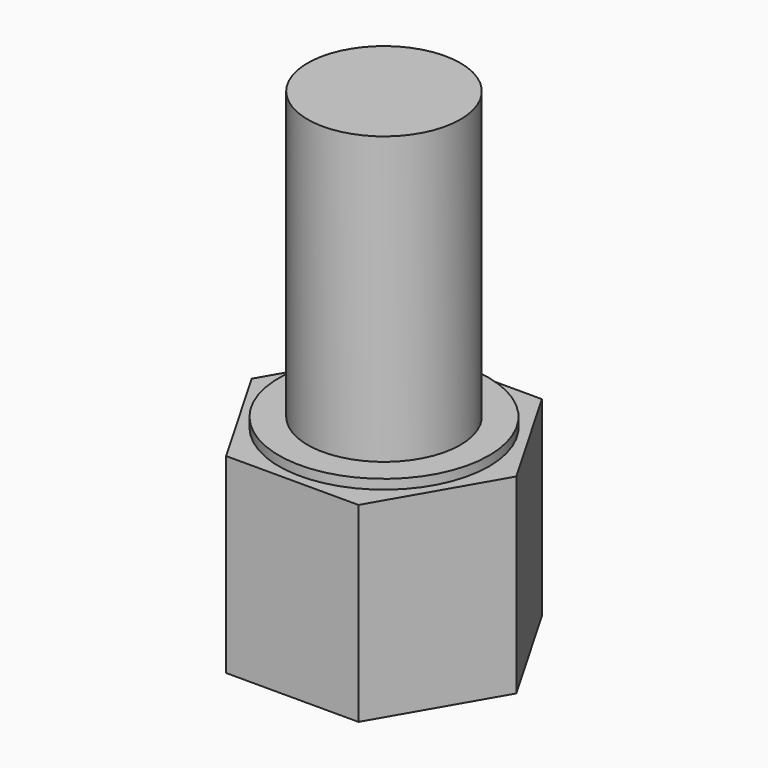
from build123d import *

# Parameters (mm, degrees)
F1_DEPTH = 10
F2_R     = 5.5
F3_DEPTH = 0.5
F4_R     = 4
F5_DEPTH = 15


with BuildPart() as f1:
    # F0 (on Top) → F1 (new body)
    with BuildSketch(Plane.XY):
        Polygon((3.464102, 6), (-3.464102, 6), (-6.928203, 0), (-3.464102, -6), (3.464102, -6), (6.928203, 0), align=None)
    extrude(amount=F1_DEPTH)

    # F2 (on face) → F3 (join)
    with BuildSketch(Plane.XY.offset(10)):
        Circle(F2_R)
    extrude(amount=F3_DEPTH)

    # F4 (on face) → F5 (join)
    with BuildSketch(Plane.XY.offset(10.5)):
        Circle(F4_R)
    extrude(amount=F5_DEPTH)


solid = f1.part
